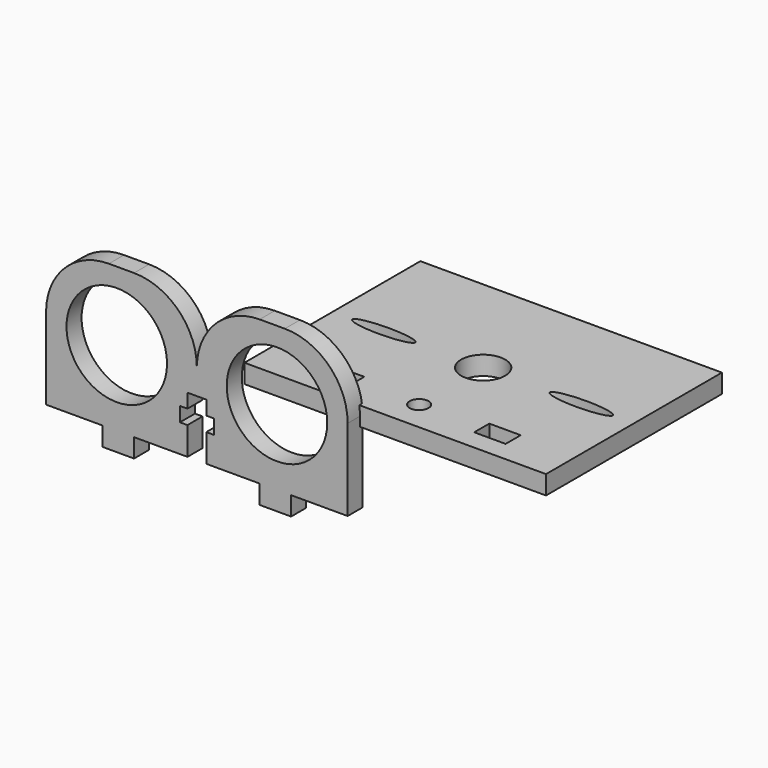
from build123d import *

# Parameters (mm, degrees)
F1_W     = 48
F1_H     = 35
F1_W_2   = 5
F1_H_2   = 3
F1_R     = 1.5
F1_R_2   = 3.5
F2_DEPTH = 3
F0_R     = 8
F0_W     = 5
F0_H     = 3
F3_DEPTH = 3
F4_W     = 3
F4_H     = 4.4525395855
F4_H_2   = 2.3
F4_W_2   = 1.2
F4_H_3   = 2.2474604145
F5_DEPTH = 25


with BuildPart() as f2:
    # F1 (on Top) → F2 (new body)
    with BuildSketch(Plane.XY):
        with Locations((29.5977953598, 16.9667163237)):
            Rectangle(F1_W, F1_H)
        with Locations((17.0977953598, 4.3105331585)):
            Rectangle(F1_W_2, F1_H_2, mode=Mode.SUBTRACT)
        with Locations((29.5977953598, 4.2276201937)):
            Circle(F1_R, mode=Mode.SUBTRACT)
        with BuildLine():
            add(Edge.make_bspline(
                [(18.7787204309, 16.9667163237), (18.7787204309, 18.6987671312), (11.2787204309, 17.8327417275), (3.7787204309, 16.9667163237), (11.2787204309, 16.1006909199), (18.7787204309, 15.2346655161), (18.7787204309, 16.9667163237)],
                knots=[0, 0, 0, 2.0943951024, 2.0943951024, 4.1887902048, 4.1887902048, 6.2831853072, 6.2831853072, 6.2831853072], degree=2, weights=[1, 0.5, 1, 0.5, 1, 0.5, 1]))
        make_face(mode=Mode.SUBTRACT)
        with Locations((42.0977953598, 4.1822276413)):
            Rectangle(F1_W_2, F1_H_2, mode=Mode.SUBTRACT)
        with Locations((29.5977953598, 16.9667163237)):
            Circle(F1_R_2, mode=Mode.SUBTRACT)
        with BuildLine():
            add(Edge.make_bspline(
                [(50.2105216682, 16.9667163237), (50.2105216682, 18.6987671312), (42.7105216682, 17.8327417275), (35.2105216682, 16.9667163237), (42.7105216682, 16.1006909199), (50.2105216682, 15.2346655161), (50.2105216682, 16.9667163237)],
                knots=[0, 0, 0, 2.0943951024, 2.0943951024, 4.1887902048, 4.1887902048, 6.2831853072, 6.2831853072, 6.2831853072], degree=2, weights=[1, 0.5, 1, 0.5, 1, 0.5, 1]))
        make_face(mode=Mode.SUBTRACT)
    extrude(amount=F2_DEPTH)


with BuildPart() as f3:
    # F0 (on Front) → F3 (new body)
    with BuildSketch(Plane.XZ):
        with BuildLine():
            Line((-10, 11.5), (-14, 11.5))
            ThreePointArc((-14, 11.5), (-21.0710678119, 8.5710678119), (-24, 1.5))
            Line((-24, 1.5), (-24, -11.5))
            Line((-24, -11.5), (-15, -11.5))
            Line((-15, -11.5), (-10, -11.5))
            Line((-10, -11.5), (10, -11.5))
            Line((10, -11.5), (15, -11.5))
            Line((15, -11.5), (24, -11.5))
            Line((24, -11.5), (24, 1.5))
            ThreePointArc((24, 1.5), (21.0710678119, 8.5710678119), (14, 11.5))
            Line((14, 11.5), (10, 11.5))
            ThreePointArc((10, 11.5), (2.9289321881, 8.5710678119), (0, 1.5))
            ThreePointArc((0, 1.5), (-2.9289321881, 8.5710678119), (-10, 11.5))
        make_face()
        with Locations((-12.75, 0.5)):
            Circle(F0_R, mode=Mode.SUBTRACT)
        with Locations((12.75, 0.5)):
            Circle(F0_R, mode=Mode.SUBTRACT)
        with Locations((-12.5, -13)):
            Rectangle(F0_W, F0_H)
        with Locations((12.5, -13)):
            Rectangle(F0_W, F0_H)
    extrude(amount=F3_DEPTH)

    # F4 (on face) → F5 (cut)
    with BuildSketch(Plane.XZ.offset(3)):
        with Locations((0, -9.2737302072)):
            Rectangle(F4_W, F4_H)
        with Locations((0, -5.8974604145)):
            Rectangle(F4_W, F4_H_2)
        with Locations((-2.1, -5.8974604145)):
            Rectangle(F4_W_2, F4_H_2)
        with Locations((0, -3.6237302072)):
            Rectangle(F4_W, F4_H_3)
        with Locations((2.1, -5.8974604145)):
            Rectangle(F4_W_2, F4_H_2)
    extrude(amount=-F5_DEPTH, mode=Mode.SUBTRACT)


solid = Compound([f2.part, f3.part])
